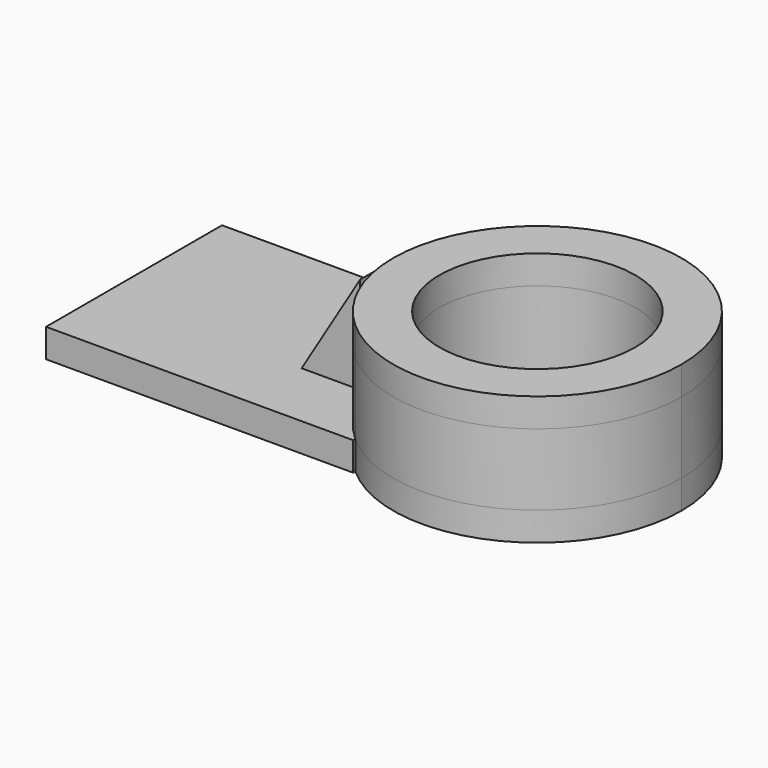
from build123d import *

# Parameters (mm, degrees)
F0_W      = 54.494548589
F0_H      = 39.0236377716
F1_DEPTH  = 5.08
F3_DEPTH  = 12.7
F4_W      = 28.1709115952
F4_H      = 15.8172734082
F4_W_2    = 23.5527232289
F5_DEPTH  = 25.5801105544
F6_W      = 57.7272698283
F6_H      = 25.6309099495
F7_DEPTH  = 25.5801105544
F8_R      = 17.3708251463
F9_DEPTH  = 17.781
F10_DEPTH = 5.08
F12_DEPTH = 7.62


with BuildPart() as f1:
    # F0 (on Top) → F1 (new body)
    with BuildSketch(Plane.XY):
        Rectangle(F0_W, F0_H)
    extrude(amount=F1_DEPTH)

    # F2 (on face) → F3 (join, symmetric)
    with BuildSketch(Plane.XY.offset(5.08)):
        with BuildLine():
            Line((27.2472742945, -19.0345980856), (27.2472742945, 19.0345980856))
            ThreePointArc((27.2472742945, 19.0345980856), (18.7554389024, 0), (27.2472742945, -19.0345980856))
        make_face()
        with BuildLine():
            ThreePointArc((27.2472742945, -19.0345980856), (54.7560079993, -23.3598822472), (69.9136600113, 0))
            ThreePointArc((69.9136600113, 0), (54.7560079993, 23.3598822472), (27.2472742945, 19.0345980856))
            Line((27.2472742945, 19.0345980856), (27.2472742945, -19.0345980856))
        make_face()
    extrude(amount=F3_DEPTH, both=True)

    # F4 (on Front) → F5 (cut, through all)
    with BuildSketch(Plane.XZ):
        with Locations((32.5581813231, -7.9086367041)):
            Rectangle(F4_W, F4_H)
        with Locations((58.4199987352, -7.9086367041)):
            Rectangle(F4_W_2, F4_H)
    extrude(amount=-F5_DEPTH, mode=Mode.SUBTRACT)

    # F6 (on Front) → F7 (cut, through all)
    with BuildSketch(Plane.XZ):
        with Locations((47.5672706962, -12.8154549748)):
            Rectangle(F6_W, F6_H)
    extrude(amount=F7_DEPTH, mode=Mode.SUBTRACT)

    # F8 (on face) → F9 (cut, through all)
    with BuildSketch(Plane.XY.offset(17.78)):
        with Locations((44.3345494568, 0)):
            Circle(F8_R)
    extrude(amount=-F9_DEPTH, mode=Mode.SUBTRACT)

    # F10 (add): a face of the model
    f10_faces = [f1.faces().sort_by_distance(p)[0] for p in [
        (60.9385234936, 18.4962183503, 17.78),
    ]]
    extrude(f10_faces, amount=F10_DEPTH)

    # F11 (on Front) → F12 (join)
    with BuildSketch(Plane.XZ):
        Polygon((18.9776308835, 5.4199039005), (18.9776308835, 22.6603336632), (8.5929688066, 5.4199039005), align=None)
    extrude(amount=F12_DEPTH)


solid = f1.part
